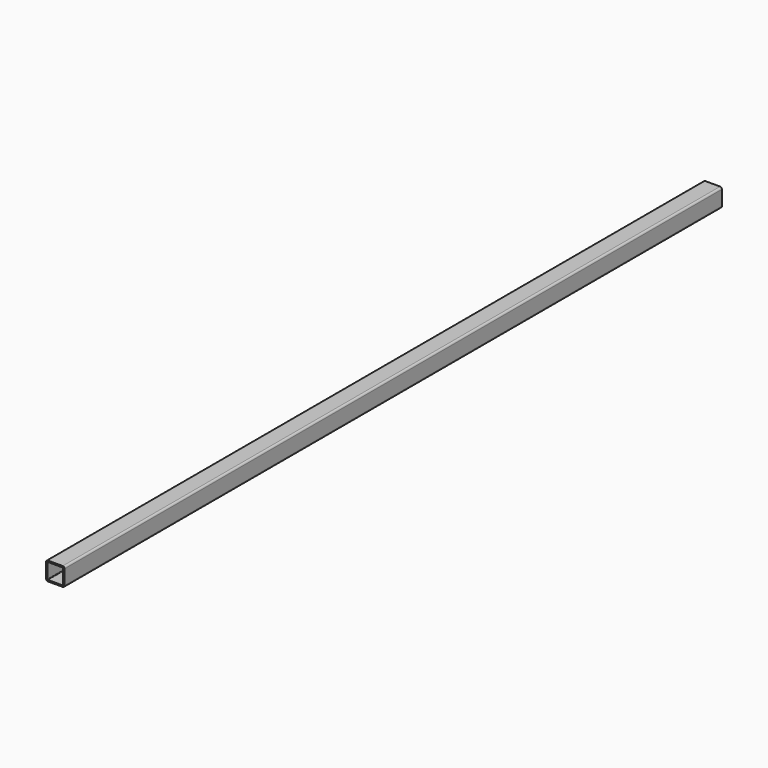
from build123d import *

# Parameters (mm, degrees)
F1_DEPTH = 1780


with BuildPart() as f1:
    # F0 (on Front) → F1 (new body)
    with BuildSketch(Plane.XZ):
        with BuildLine():
            ThreePointArc((20, 16), (18.828427, 18.828427), (16, 20))
            Line((16, 20), (-16, 20))
            ThreePointArc((-16, 20), (-18.828427, 18.828427), (-20, 16))
            Line((-20, 16), (-20, -16))
            ThreePointArc((-20, -16), (-18.828427, -18.828427), (-16, -20))
            Line((-16, -20), (16, -20))
            ThreePointArc((16, -20), (18.828427, -18.828427), (20, -16))
            Line((20, -16), (20, 16))
        make_face()
        with BuildLine():
            Line((-16, 17), (16, 17))
            ThreePointArc((16, 17), (16.707107, 16.707107), (17, 16))
            Line((17, 16), (17, -16))
            ThreePointArc((17, -16), (16.707107, -16.707107), (16, -17))
            Line((16, -17), (-16, -17))
            ThreePointArc((-16, -17), (-16.707107, -16.707107), (-17, -16))
            Line((-17, -16), (-17, 16))
            ThreePointArc((-17, 16), (-16.707107, 16.707107), (-16, 17))
        make_face(mode=Mode.SUBTRACT)
    extrude(amount=F1_DEPTH)


solid = f1.part
